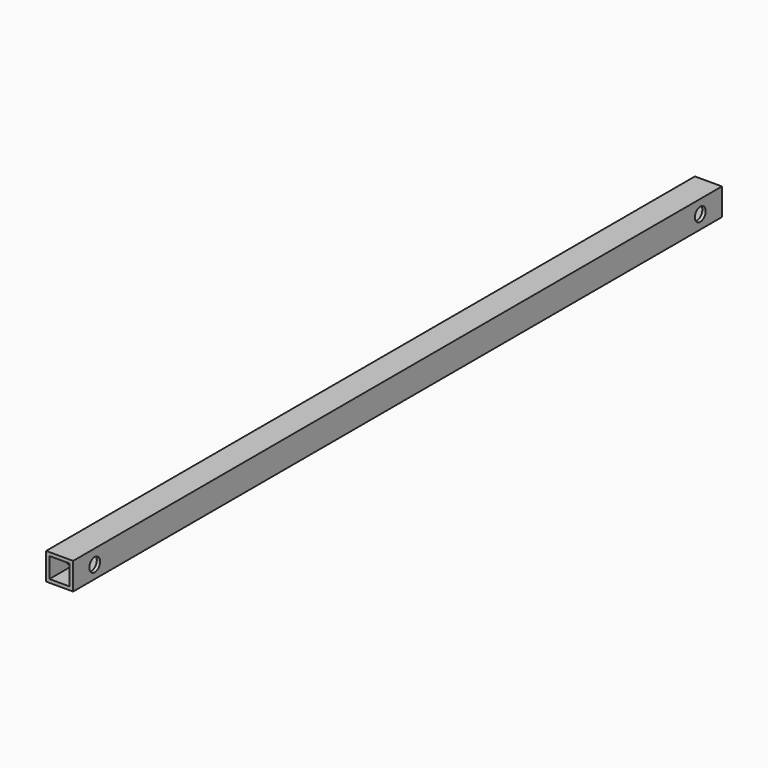
from build123d import *

# Parameters (mm, degrees)
F0_W     = 25.4
F0_H     = 25.4
F0_W_2   = 19.05
F0_H_2   = 19.05
F1_DEPTH = 762
F3_D     = 12.7
F5_D     = 12.7


with BuildPart() as f1:
    # F0 (on Front) → F1 (new body)
    with BuildSketch(Plane.XZ):
        with Locations((-9.525, 9.525)):
            Rectangle(F0_W, F0_H)
        with Locations((-9.525, 9.525)):
            Rectangle(F0_W_2, F0_H_2, mode=Mode.SUBTRACT)
    extrude(amount=F1_DEPTH)

    # F3 (through all)
    with Locations(Plane.YZ.offset(3.175)):
        with Locations((-736.6, 8.823588)):
            Hole(F3_D / 2)

    # F5 (through all)
    with Locations(Plane.YZ.offset(3.175)):
        with Locations((-25.4, 9.525)):
            Hole(F5_D / 2)


solid = f1.part
